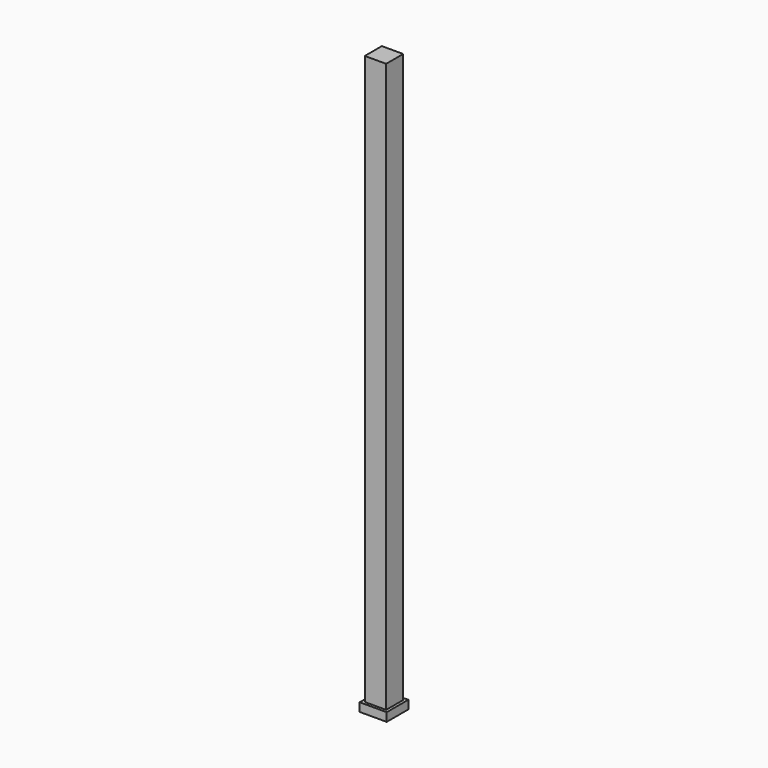
from build123d import *

# Parameters (mm, degrees)
F0_W     = 95.25
F0_H     = 95.25
F1_DEPTH = 2540
F2_W     = 120.65
F2_H     = 120.65
F2_W_2   = 95.25
F2_H_2   = 95.25
F3_DEPTH = 38.1


with BuildPart() as f1:
    # F0 (on Top) → F1 (new body)
    with BuildSketch(Plane.XY):
        with Locations((47.625, -47.625)):
            Rectangle(F0_W, F0_H)
    extrude(amount=F1_DEPTH)

    # F2 (on face) → F3 (join)
    with BuildSketch(Plane(origin=(0, 0, 0), x_dir=(1, 0, 0), z_dir=(0, 0, -1))):
        with Locations((47.625, 47.625)):
            Rectangle(F2_W, F2_H)
        with Locations((47.625, 47.625)):
            Rectangle(F2_W_2, F2_H_2, mode=Mode.SUBTRACT)
        with Locations((47.625, 47.625)):
            Rectangle(F2_W_2, F2_H_2)
    extrude(amount=F3_DEPTH)


solid = f1.part
